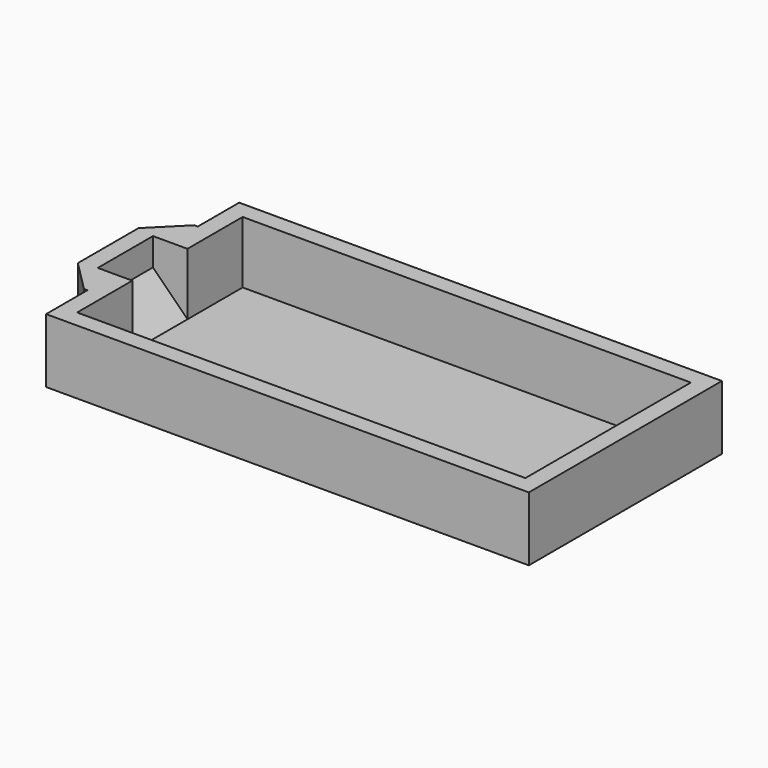
from build123d import *

# Parameters (mm, degrees)
BOX001_W        = 3
BOX001_H        = 4
BOX001_DEPTH    = 5
CHAMFER_SIZE    = 2
BOX002_W        = 2
BOX002_H        = 8
BOX002_DEPTH    = 3.725
CHAMFER001_SIZE = 1.8
SKETCH004_W     = 1
SKETCH004_H     = 14
PAD004_DEPTH    = 3.6
SKETCH005_W     = 28
SKETCH005_H     = 1
PAD005_DEPTH    = 3.6
SKETCH006_W     = 1
SKETCH006_H     = 14
PAD006_DEPTH    = 3.6
SKETCH003_W     = 28
SKETCH003_H     = 1
PAD003_DEPTH    = 3.6
BOX_W           = 28
BOX_H           = 14
BOX_DEPTH       = 0.125


with BuildPart() as chamfer_body:
    # Box001 → Box001 (new body)
    with BuildSketch(Plane(origin=(-1, 5, 0.125), x_dir=(1, 0, 0), z_dir=(0, 0, 1))):
        with Locations((1.5, 2)):
            Rectangle(BOX001_W, BOX001_H)
    extrude(amount=BOX001_DEPTH)

    # Chamfer
    chamfer_edges = [chamfer_body.edges().sort_by_distance(p)[0] for p in [
        (-1, 7, 0.125),
    ]]
    chamfer(chamfer_edges, length=CHAMFER_SIZE)


with BuildPart() as chamfer001:
    # Box002 → Box002 (new body)
    with BuildSketch(Plane(origin=(-2, 3, 0), x_dir=(1, 0, 0), z_dir=(0, 0, 1))):
        with Locations((1, 4)):
            Rectangle(BOX002_W, BOX002_H)
    extrude(amount=BOX002_DEPTH)

    # Chamfer001
    chamfer001_edges = [chamfer001.edges().sort_by_distance(p)[0] for p in [
        (-2, 3, 1.8625),
        (-2, 11, 1.8625),
    ]]
    chamfer(chamfer001_edges, length=CHAMFER001_SIZE)


with BuildPart() as pad004:
    # Sketch004 → Pad004 (new body)
    with BuildSketch(Plane.XY.offset(0.125)):
        with Locations((0.5, 7)):
            Rectangle(SKETCH004_W, SKETCH004_H)
    extrude(amount=PAD004_DEPTH)


with BuildPart() as pad005:
    # Sketch005 → Pad005 (new body)
    with BuildSketch(Plane.XY.offset(0.125)):
        with Locations((14, 0.5)):
            Rectangle(SKETCH005_W, SKETCH005_H)
    extrude(amount=PAD005_DEPTH)


with BuildPart() as pad006:
    # Sketch006 → Pad006 (new body)
    with BuildSketch(Plane.XY.offset(0.125)):
        with Locations((27.5, 7)):
            Rectangle(SKETCH006_W, SKETCH006_H)
    extrude(amount=PAD006_DEPTH)


with BuildPart() as walls:
    # Sketch003 → Pad003 (new body)
    with BuildSketch(Plane.XY.offset(0.125)):
        with Locations((14, 13.5)):
            Rectangle(SKETCH003_W, SKETCH003_H)
    extrude(amount=PAD003_DEPTH)

    # Fusion001: union Pad004, Pad005, Pad006
    add(pad004.part)
    add(pad005.part)
    add(pad006.part)

    # Fusion: union Chamfer001
    add(chamfer001.part)

    # Cut: cut Chamfer body
    add(chamfer_body.part, mode=Mode.SUBTRACT)


with BuildPart() as base_and_walls_do_not_edit:
    # Box → Box (new body)
    with BuildSketch(Plane.XY):
        with Locations((14, 7)):
            Rectangle(BOX_W, BOX_H)
    extrude(amount=BOX_DEPTH)

    # Fusion024: union Walls
    add(walls.part)


solid = base_and_walls_do_not_edit.part
